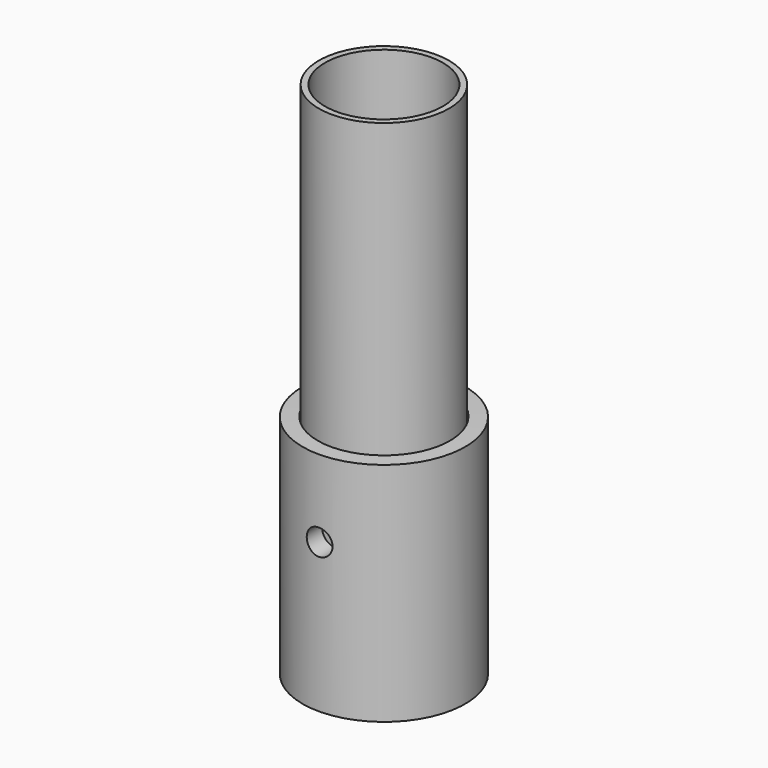
from build123d import *

# Parameters (mm, degrees)
F0_R            = 16
F0_R_2          = 14.5
F1_DEPTH        = 80
F8_D            = 3
F8_DEPTH        = 22
F8_CBORE_D      = 6.35
F8_CBORE_DEPTH  = 5
F8_TIP          = 0.9012909285
F10_R           = 14.4
F11_DEPTH       = 1
F12_R           = 1.5
F13_DEPTH       = 1
F14_R           = 14.5
F15_DEPTH       = 40.75
F20_DEPTH       = 0.25
F22_R           = 14
F22_R_2         = 13
F23_DEPTH       = 14
F24_D           = 3
F24_DEPTH       = 22
F24_CBORE_D     = 6.35
F24_CBORE_DEPTH = 5
F24_TIP         = 0.9012909285


with BuildPart() as f1:
    # F0 (on Top) → F1 (new body)
    with BuildSketch(Plane.XY):
        Circle(F0_R)
        Circle(F0_R_2, mode=Mode.SUBTRACT)
    extrude(amount=F1_DEPTH)


with BuildPart() as f3:
    # F2 (on Front) → F3 (revolve)
    with BuildSketch(Plane.XZ):
        Polygon((-13.0514704368, 0), (-16.2514704368, 0), (-16.2514704368, 4), (-17.8514704368, 4), (-17.8514704368, 6.2), (-16.2514704368, 6.2), (-16.2514704368, 8.2), (-20, 8.0949946975), (-20, -47.5292870402), (-3, -47.5292870402), (-3, -35.5292870402), (-2.5, -35.0292870402), (-2.5, -22.5292870402), (0, -20.0292870402), (0, -11.9050053025), (-13.0514704368, -3), align=None)
    revolve(axis=Axis((0, 0, -15.9671461714), (0, 0, 1)))

    # F8
    with Locations(Plane(origin=(0, 20, 0), x_dir=(1, 0, 0), z_dir=(0, 1, 0))):
        with Locations((0, 5.5282147527)):
            CounterBoreHole(F8_D / 2, F8_CBORE_D / 2, F8_CBORE_DEPTH, depth=F8_DEPTH)
            with Locations((0, 0, -(F8_DEPTH + F8_TIP / 2))):  # 118° drill point
                Cone(0, F8_D / 2, F8_TIP, mode=Mode.SUBTRACT)

    # F24
    with Locations(Plane.XZ.offset(20)):
        with Locations((0, -10.8986339569)):
            CounterBoreHole(F24_D / 2, F24_CBORE_D / 2, F24_CBORE_DEPTH, depth=F24_DEPTH)
            with Locations((0, 0, -(F24_DEPTH + F24_TIP / 2))):  # 118° drill point
                Cone(0, F24_D / 2, F24_TIP, mode=Mode.SUBTRACT)


with BuildPart() as f1_1:
    # F9: moved
    add(f1.part)


with BuildPart() as f11:
    # F10 (on Top) → F11 (new body)
    with BuildSketch(Plane.XY):
        Circle(F10_R)
    extrude(amount=F11_DEPTH)

    # F12 (on Top) → F13 (cut)
    with BuildSketch(Plane.XY):
        with Locations((6.4248272051, -8.8430160073)):
            Circle(F12_R)
        with Locations((-6.4248272051, -8.8430160073)):
            Circle(F12_R)
        with Locations((-10.3955887897, -3.3777315517)):
            Circle(F12_R)
        with Locations((0, -10.9305689111)):
            Circle(F12_R)
        with Locations((-6.4248272051, 8.8430160073)):
            Circle(F12_R)
        with Locations((3.3777315517, 10.3955887897)):
            Circle(F12_R)
        with Locations((-10.3955887897, 3.3777315517)):
            Circle(F12_R)
        with Locations((0, 10.9305689111)):
            Circle(F12_R)
        with Locations((-5.7666221108, 4.1896962064)):
            Circle(F12_R)
        with Locations((2.8609776839, 2.0786219591)):
            Circle(F12_R)
        with Locations((-5.7666221108, -4.1896962064)):
            Circle(F12_R)
        with Locations((-3.3777315517, 10.3955887897)):
            Circle(F12_R)
        with Locations((8.8430160073, -6.4248272051)):
            Circle(F12_R)
        with Locations((-3.5363628995, 0)):
            Circle(F12_R)
        with Locations((-2.202653646, -6.7790708645)):
            Circle(F12_R)
        with Locations((-2.202653646, 6.7790708645)):
            Circle(F12_R)
        with Locations((8.8430160073, 6.4248272051)):
            Circle(F12_R)
        with Locations((2.202653646, 6.7790708645)):
            Circle(F12_R)
        with Locations((6.4248272051, 8.8430160073)):
            Circle(F12_R)
        Circle(F12_R)
        with Locations((10.3955887897, -3.3777315517)):
            Circle(F12_R)
        with Locations((10.9305689111, 0)):
            Circle(F12_R)
        with Locations((5.7666221108, 4.1896962064)):
            Circle(F12_R)
        with Locations((5.7666221108, -4.1896962064)):
            Circle(F12_R)
        with Locations((10.3955887897, 3.3777315517)):
            Circle(F12_R)
        with Locations((2.202653646, -6.7790708645)):
            Circle(F12_R)
        with Locations((-7.1279369295, 0)):
            Circle(F12_R)
        with Locations((-1.0927962342, -3.3632809795)):
            Circle(F12_R)
        with Locations((3.3777315517, -10.3955887897)):
            Circle(F12_R)
        with Locations((2.8609776839, -2.0786219591)):
            Circle(F12_R)
        with Locations((-1.0927962342, 3.3632809795)):
            Circle(F12_R)
        with Locations((-3.3777315517, -10.3955887897)):
            Circle(F12_R)
        with Locations((-8.8430160073, -6.4248272051)):
            Circle(F12_R)
        with Locations((-10.9305689111, 0)):
            Circle(F12_R)
        with Locations((-8.8430160073, 6.4248272051)):
            Circle(F12_R)
        with Locations((7.1279369295, 0)):
            Circle(F12_R)
    extrude(amount=F13_DEPTH, mode=Mode.SUBTRACT)


with BuildPart() as f15:
    # F14 (on Top) → F15 (new body)
    with BuildSketch(Plane.XY):
        Circle(F14_R)
    extrude(amount=F15_DEPTH)


with BuildPart() as f15_1:
    # F16: moved
    add(f15.part.moved(Location((0, 0, 15.25))))


with BuildPart() as f18:
    # F17 (on Front) → F18 (revolve)
    with BuildSketch(Plane.XZ):
        with BuildLine():
            Line((-17.8558584303, 5.4584029072), (-17.8558584303, 4.7362349055))
            ThreePointArc((-17.8558584303, 4.7362349055), (-16.9303799603, 4.0973437919), (-15.9959793091, 4.7231134591))
            Line((-15.9959793091, 4.7231134591), (-15.9959793091, 5.4715243536))
            ThreePointArc((-15.9959793091, 5.4715243536), (-16.9303799603, 6.0972940208), (-17.8558584303, 5.4584029072))
        make_face()
    revolve(axis=Axis((0, 0, -15.9671461714), (0, 0, 1)))


with BuildPart() as f11_1:
    # F19: moved
    add(f11.part.moved(Location((0, 0, 14))))


with BuildPart() as f20:
    # F10 (on Top) → F20 (new body)
    with BuildSketch(Plane.XY):
        Circle(F10_R)
    extrude(amount=F20_DEPTH)


with BuildPart() as f20_1:
    # F21: moved
    add(f20.part.moved(Location((0, 0, 15))))


with BuildPart() as f23:
    # F22 (on Top) → F23 (new body)
    with BuildSketch(Plane.XY):
        Circle(F22_R)
        Circle(F22_R_2, mode=Mode.SUBTRACT)
    extrude(amount=F23_DEPTH)


solid = Compound([f3.part, f1_1.part, f15_1.part, f18.part, f11_1.part, f20_1.part, f23.part])
